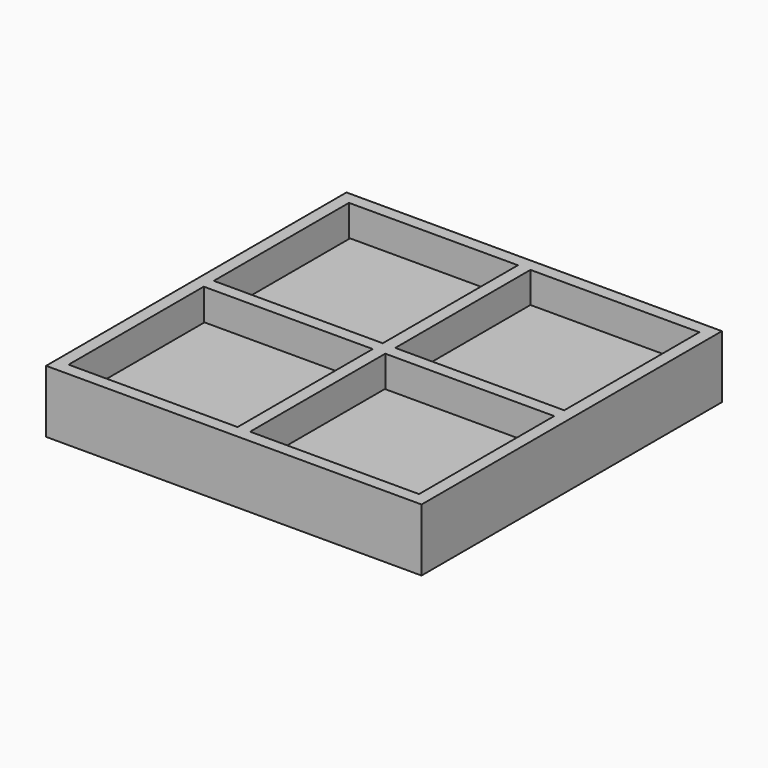
from build123d import *

# Parameters (mm, degrees)
F0_W     = 1500
F0_H     = 1500
F0_W_2   = 675
F0_H_2   = 675
F1_DEPTH = 125
F2_W     = 675
F2_H     = 675
F3_DEPTH = 1.5


with BuildPart() as f1:
    # F0 (on Top) → F1 (new body, symmetric)
    with BuildSketch(Plane.XY):
        Rectangle(F0_W, F0_H)
        with Locations((-362.5, -362.5)):
            Rectangle(F0_W_2, F0_H_2, mode=Mode.SUBTRACT)
        with Locations((362.5, -362.5)):
            Rectangle(F0_W_2, F0_H_2, mode=Mode.SUBTRACT)
        with Locations((-362.5, 362.5)):
            Rectangle(F0_W_2, F0_H_2, mode=Mode.SUBTRACT)
        with Locations((362.5, 362.5)):
            Rectangle(F0_W_2, F0_H_2, mode=Mode.SUBTRACT)
    extrude(amount=F1_DEPTH, both=True)

    # F2 (on Top) → F3 (join, symmetric)
    with BuildSketch(Plane.XY):
        with Locations((-358.077323, 363.704027)):
            Rectangle(F2_W, F2_H)
        with Locations((361.055711, 363.704027)):
            Rectangle(F2_W, F2_H)
        with Locations((-358.077323, -364.492154)):
            Rectangle(F2_W, F2_H)
        with Locations((361.055711, -364.492154)):
            Rectangle(F2_W, F2_H)
    extrude(amount=F3_DEPTH, both=True)


solid = f1.part
